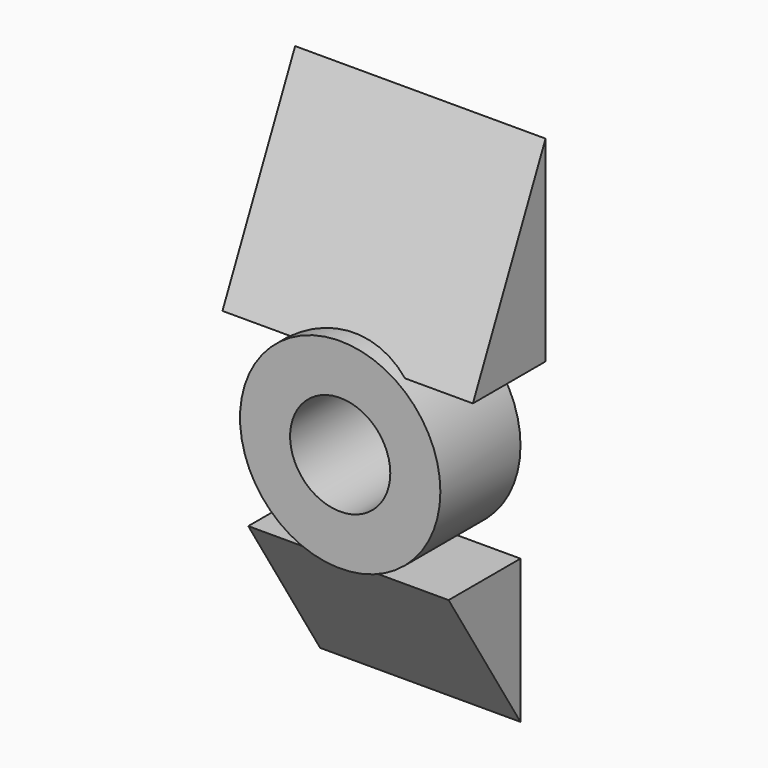
from build123d import *

# Parameters (mm, degrees)
F0_R     = 20
F0_R_2   = 10
F1_DEPTH = 20
F3_DEPTH = 25
F5_DEPTH = 20


with BuildPart() as f1:
    # F0 (on Front) → F1 (new body)
    with BuildSketch(Plane.XZ):
        Circle(F0_R)
        Circle(F0_R_2, mode=Mode.SUBTRACT)
    extrude(amount=F1_DEPTH)

    # F2 (on Right) → F3 (join, symmetric)
    with BuildSketch(Plane.YZ):
        Polygon((0, 16.390087), (0, 55.571124), (-18.135777, 16.390087), align=None)
    extrude(amount=F3_DEPTH, both=True)

    # F4 (on Right) → F5 (join, symmetric)
    with BuildSketch(Plane.YZ):
        Polygon((-17.94181, -19.881465), (0, -48.588365), (0, -19.881465), align=None)
    extrude(amount=F5_DEPTH, both=True)


solid = f1.part
